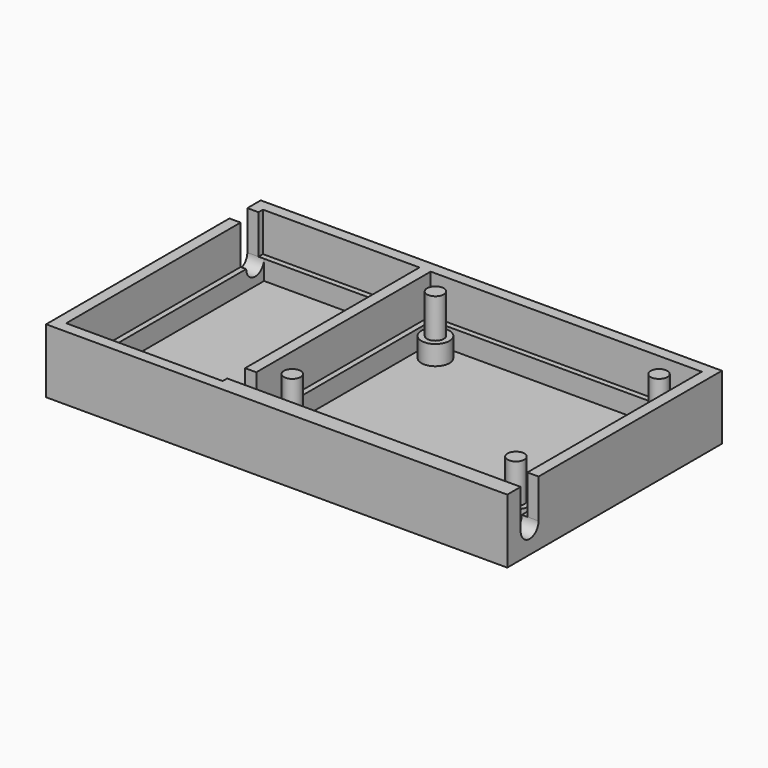
from build123d import *

# Parameters (mm, degrees)
SKETCH005_W     = 82.5
SKETCH005_H     = 48
SKETCH005_W_2   = 28
SKETCH005_H_2   = 44
SKETCH005_W_3   = 48.5
SKETCH005_H_3   = 40.5
PAD003_DEPTH    = 7
SKETCH006_W     = 82.5
SKETCH006_H     = 48
SKETCH006_W_2   = 26
SKETCH006_H_2   = 42
SKETCH006_W_3   = 46.5
SKETCH006_H_3   = 38.5
PAD004_DEPTH    = 3.5
SKETCH007_W     = 82.5
SKETCH007_H     = 48
PAD005_DEPTH    = 1
SKETCH008_R     = 2.5
PAD006_DEPTH    = 3.5
SKETCH009_R     = 1.5
PAD007_DEPTH    = 7
POCKET002_DEPTH = 3.001
POCKET003_DEPTH = 53.501
SKETCH_W        = 1
SKETCH_H        = 9
POCKET_DEPTH    = 3.5


with BuildPart() as part:
    # Sketch005 → Pad003 (new body)
    with BuildSketch(Plane.XY):
        Rectangle(SKETCH005_W, SKETCH005_H)
        with Locations((-25.25, 0)):
            Rectangle(SKETCH005_W_2, SKETCH005_H_2, mode=Mode.SUBTRACT)
        with Locations((15, 1.75)):
            Rectangle(SKETCH005_W_3, SKETCH005_H_3, mode=Mode.SUBTRACT)
    extrude(amount=PAD003_DEPTH)

    # Sketch006 (on Face13 of Pad003) → Pad004 (join)
    with BuildSketch(Plane(origin=(0, 0, 0), x_dir=(1, 0, 0), z_dir=(0, 0, -1))):
        Rectangle(SKETCH006_W, SKETCH006_H)
        with Locations((-25.25, 0)):
            Rectangle(SKETCH006_W_2, SKETCH006_H_2, mode=Mode.SUBTRACT)
        with Locations((15, -1.75)):
            Rectangle(SKETCH006_W_3, SKETCH006_H_3, mode=Mode.SUBTRACT)
    extrude(amount=PAD004_DEPTH)

    # Sketch007 (on Face11 of Pad004) → Pad005 (join)
    with BuildSketch(Plane(origin=(0, 0, -3.5), x_dir=(1, 0, 0), z_dir=(0, 0, -1))):
        Rectangle(SKETCH007_W, SKETCH007_H)
    extrude(amount=PAD005_DEPTH)

    # Sketch008 (on Face22 of Pad005) → Pad006 (join)
    with BuildSketch(Plane.XY.offset(-3.5)):
        with Locations((-5, 17.75)):
            Circle(SKETCH008_R)
        with Locations((35, 17.75)):
            Circle(SKETCH008_R)
        with Locations((35, -14.25)):
            Circle(SKETCH008_R)
        with Locations((-5, -14.25)):
            Circle(SKETCH008_R)
    extrude(amount=PAD006_DEPTH)

    # Sketch009 (on Face34 of Pad006) → Pad007 (join)
    with BuildSketch(Plane.XY):
        with Locations((-5, 17.75)):
            Circle(SKETCH009_R)
        with Locations((35, 17.75)):
            Circle(SKETCH009_R)
        with Locations((35, -14.25)):
            Circle(SKETCH009_R)
        with Locations((-5, -14.25)):
            Circle(SKETCH009_R)
    extrude(amount=PAD007_DEPTH)

    # Sketch010 (on Face21 of Pad007) → Pocket002 (cut, through all)
    with BuildSketch(Plane.YZ.offset(-38.25)):
        with BuildLine():
            Line((21, 0), (21, 7))
            Line((21, 7), (17, 7))
            Line((17, 7), (17, 0))
            ThreePointArc((17, 0), (19, -2), (21, 0))
        make_face()
    extrude(amount=-POCKET002_DEPTH, mode=Mode.SUBTRACT)

    # Sketch011 (on Face25 of Pocket002) → Pocket003 (cut, through all)
    with BuildSketch(Plane(origin=(-12.25, 0, 0), x_dir=(0, -1, 0), z_dir=(-1, 0, 0))):
        with BuildLine():
            Line((21, 0), (21, 7))
            Line((21, 7), (17, 7))
            Line((17, 7), (17, 0))
            ThreePointArc((17, 0), (19, -2), (21, 0))
        make_face()
    extrude(amount=-POCKET003_DEPTH, mode=Mode.SUBTRACT)

    # Sketch (on Face22 of Pocket003) → Pocket (cut)
    with BuildSketch(Plane.XY):
        with Locations((-11.75, -7.5)):
            Rectangle(SKETCH_W, SKETCH_H)
    extrude(amount=-POCKET_DEPTH, mode=Mode.SUBTRACT)


solid = part.part
